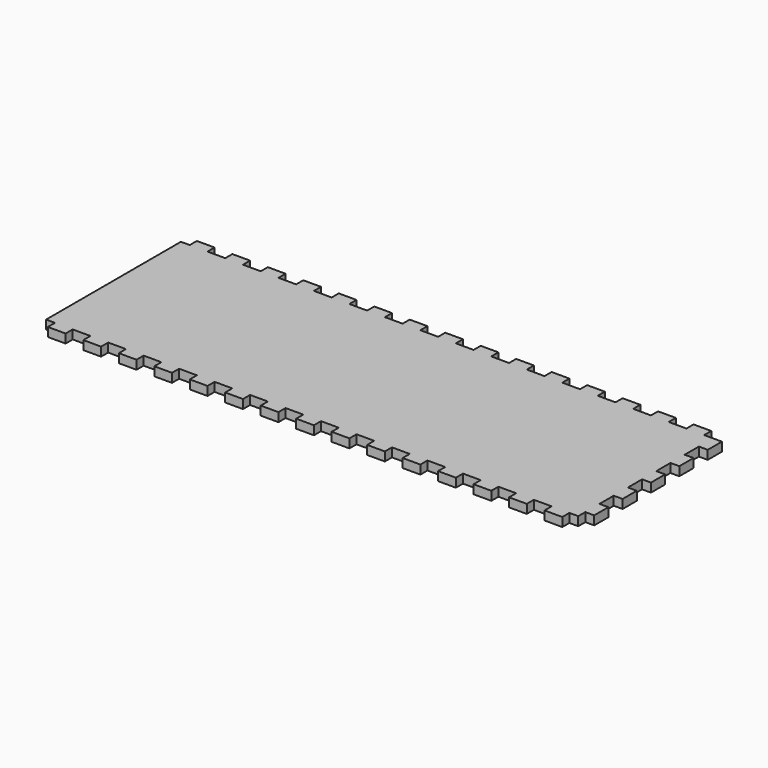
from build123d import *

# Parameters (mm, degrees)
SKETCH096_W            = 300
SKETCH096_H            = 95
PAD053_DEPTH           = 5
SKETCH113_W            = 10
SKETCH113_H            = 5
PAD069_DEPTH           = 5
LINEARPATTERN065_COUNT = 5
LINEARPATTERN065_PITCH = 20
SKETCH114_W            = 10
SKETCH114_H            = 5
PAD070_DEPTH           = 5
LINEARPATTERN066_COUNT = 15
LINEARPATTERN066_PITCH = 20
SKETCH129_W            = 10
SKETCH129_H            = 5
PAD073_DEPTH           = 5
LINEARPATTERN081_COUNT = 15
LINEARPATTERN081_PITCH = 20


with BuildPart() as part:
    # Sketch096 → Pad053 (new body)
    with BuildSketch(Plane.XY):
        Rectangle(SKETCH096_W, SKETCH096_H)
    extrude(amount=PAD053_DEPTH)

    # Sketch113 (on DatumPlane) → Pad069 (join)
    with BuildSketch(Plane.YZ.offset(150)):
        with Locations((-37.5, 2.5)):
            Rectangle(SKETCH113_W, SKETCH113_H)
    pad069 = extrude(amount=PAD069_DEPTH)

    # LinearPattern065: Pad069 ×5
    with Locations(*[(0, i * LINEARPATTERN065_PITCH, 0) for i in range(1, LINEARPATTERN065_COUNT)]):
        add(pad069)

    # Sketch114 (on DatumPlane) → Pad070 (join)
    with BuildSketch(Plane.XZ.offset(47.5)):
        with Locations((-140, 2.5)):
            Rectangle(SKETCH114_W, SKETCH114_H)
    pad070 = extrude(amount=PAD070_DEPTH)

    # LinearPattern066: Pad070 ×15
    with Locations(*[(i * LINEARPATTERN066_PITCH, 0, 0) for i in range(1, LINEARPATTERN066_COUNT)]):
        add(pad070)

    # Sketch129 (on DatumPlane) → Pad073 (join)
    with BuildSketch(Plane(origin=(0, 47.5, 0), x_dir=(-1, 0, 0), z_dir=(0, 1, 0))):
        with Locations((-140, 2.5)):
            Rectangle(SKETCH129_W, SKETCH129_H)
    pad073 = extrude(amount=PAD073_DEPTH)

    # LinearPattern081: Pad073 ×15
    with Locations(*[(-i * LINEARPATTERN081_PITCH, 0, 0) for i in range(1, LINEARPATTERN081_COUNT)]):
        add(pad073)


with BuildPart() as part_1:
    # Body037 placement: moved
    add(part.part.moved(Location((-100, -97.5, 100))))


solid = part_1.part
